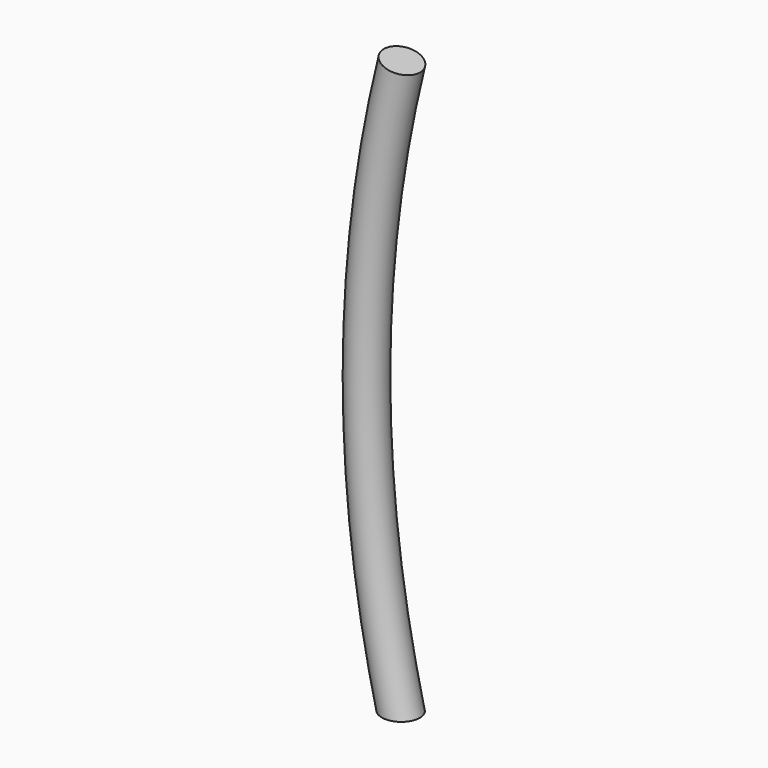
from build123d import *

# Parameters (mm, degrees)
F1_R     = 1.05
F4_R     = 29.19907
F5_DEPTH = 25


with BuildPart() as f2:
    # F2: sweep along a path in F0
    with BuildLine(Plane.XZ) as f2_path:
        ThreePointArc((0, 16.3), (-2, 0), (0, -16.3))
    # F1 (on Top) → F2 (sweep)
    with BuildSketch(Plane.XY):
        with Locations((-2, 0)):
            Circle(F1_R)
    sweep(path=f2_path.line)

    # F4 (on offset) → F5 (cut)
    with BuildSketch(Plane.XY.offset(-16)):
        with Locations((0, 17.565969)):
            Circle(F4_R)
    extrude(amount=-F5_DEPTH, mode=Mode.SUBTRACT)


solid = f2.part
